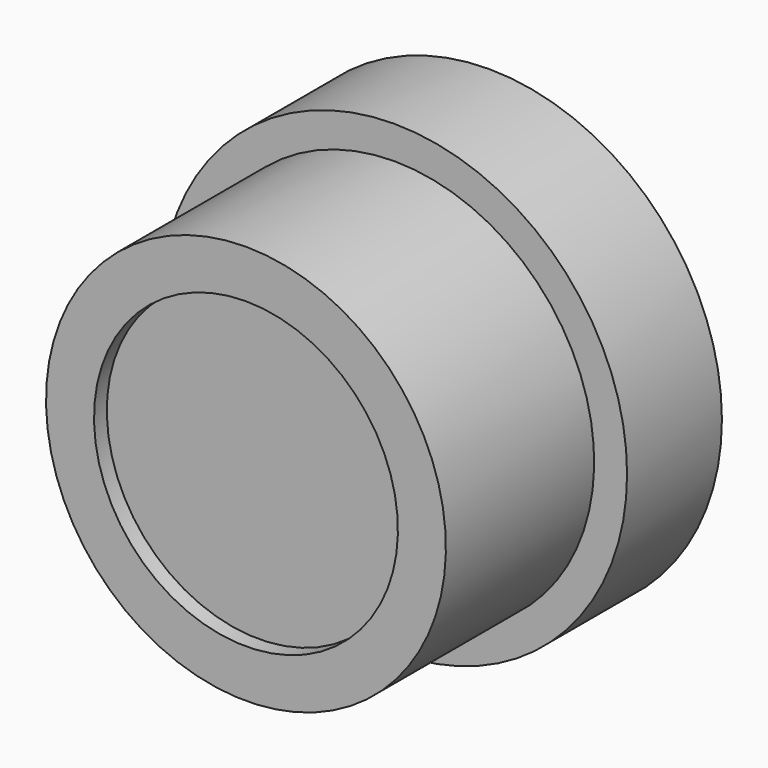
from build123d import *


with BuildPart() as f2:
    # F0 (on Right) → F2 (revolve)
    with BuildSketch(Plane.YZ):
        Polygon((5.0038, 47.498), (5.0038, 0), (57.9374, 0), (57.9374, 62.4967), (0, 62.4967), (0, 47.498), align=None)
        Polygon((57.9374, 62.4967), (57.9374, 0), (94.996, 0), (94.996, 72.7837), (57.9374, 72.7837), align=None)
    revolve(axis=Axis((0, 35.516532, 0), (0, 1, 0)))


solid = f2.part
